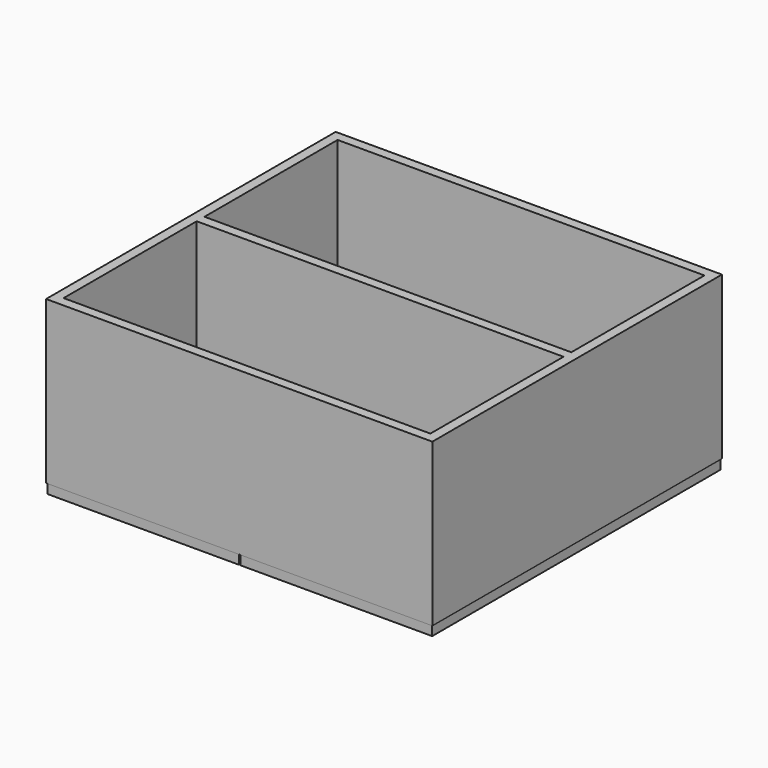
from build123d import *

# Parameters (mm, degrees)
F1_DEPTH  = 670
F3_W      = 679
F3_H      = 300
F4_DEPTH  = 18
F5_DEPTH  = 18
F7_W      = 679
F7_H      = 300
F8_DEPTH  = 9
F12_DEPTH = 667


with BuildPart() as f1:
    # F0 (on Front) → F1 (new body)
    with BuildSketch(Plane.XZ):
        Polygon((-356, -150), (-339.5, -150), (-339.5, 150), (-357.5, 150), (-357.5, -150), align=None)
    extrude(amount=F1_DEPTH)


with BuildPart() as f1b:
    # F0 (on Front) → F1, piece 2 (new body)
    with BuildSketch(Plane.XZ):
        Polygon((357.5, 150), (339.5, 150), (339.5, -150), (356, -150), (357.5, -150), align=None)
    extrude(amount=F1_DEPTH)


with BuildPart() as f4:
    # F3 (on offset) → F4 (new body)
    with BuildSketch(Plane.XZ.offset(670)):
        Rectangle(F3_W, F3_H)
    extrude(amount=-F4_DEPTH)


with BuildPart() as f5:
    # F0 (on Front) → F5 (new body)
    with BuildSketch(Plane.XZ):
        Polygon((-339.5, 150), (-339.5, -150), (-1.5, -150), (1.5, -150), (339.5, -150), (339.5, 150), align=None)
    extrude(amount=F5_DEPTH)


with BuildPart() as f8:
    # F7 (on offset) → F8 (new body, symmetric)
    with BuildSketch(Plane.XZ.offset(335)):
        Rectangle(F7_W, F7_H)
    extrude(amount=F8_DEPTH, both=True)


with BuildPart() as f1_1:
    add(f1.part)

    # F9: union F1b, F4, F5, F8
    add(f1b.part)
    add(f4.part)
    add(f5.part)
    add(f8.part)


with BuildPart() as f12:
    # F11 (on offset) → F12 (new body)
    with BuildSketch(Plane.XZ.offset(668.5)):
        Polygon((-1.5, -150), (-339.5, -150), (-356, -150), (-356, -168), (-1.5, -168), align=None)
    extrude(amount=-F12_DEPTH)


with BuildPart() as f12b:
    # F11 (on offset) → F12, piece 2 (new body)
    with BuildSketch(Plane.XZ.offset(668.5)):
        Polygon((339.5, -150), (1.5, -150), (1.5, -168), (356, -168), (356, -150), align=None)
    extrude(amount=-F12_DEPTH)


solid = Compound([f1_1.part, f12.part, f12b.part])
